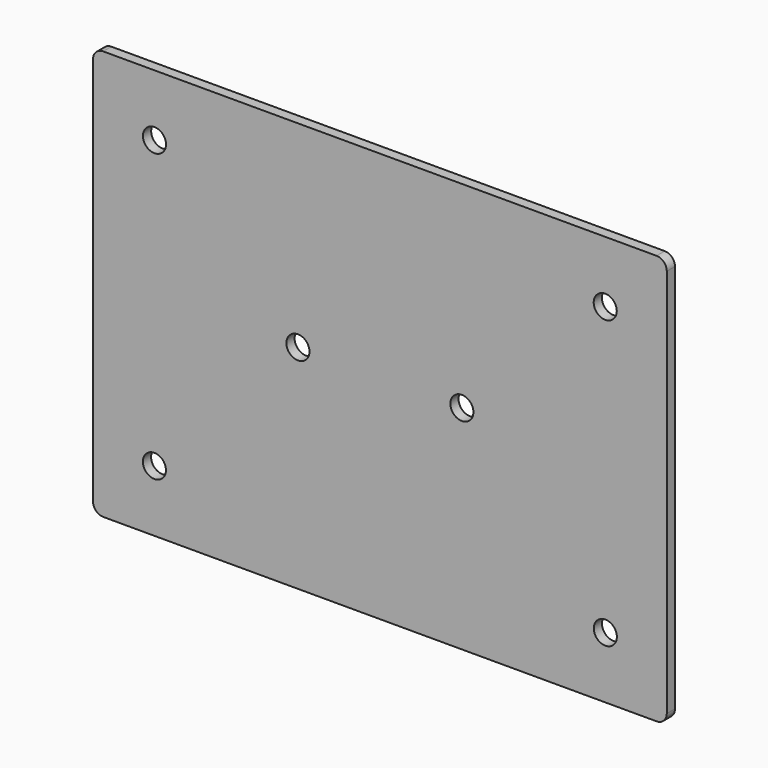
from build123d import *

# Parameters (mm, degrees)
F0_R     = 7.14375
F1_DEPTH = 6.35


with BuildPart() as f1:
    # F0 (on Front) → F1 (new body)
    with BuildSketch(Plane.XZ):
        with BuildLine():
            ThreePointArc((-171.45, 127), (-175.940128, 125.140128), (-177.8, 120.65))
            Line((-177.8, 120.65), (-177.8, -20.6375))
            Line((-177.8, -20.6375), (-177.8, -30.1625))
            Line((-177.8, -30.1625), (-177.8, -120.65))
            ThreePointArc((-177.8, -120.65), (-175.940128, -125.140128), (-171.45, -127))
            Line((-171.45, -127), (171.45, -127))
            ThreePointArc((171.45, -127), (175.940128, -125.140128), (177.8, -120.65))
            Line((177.8, -120.65), (177.8, -30.1625))
            Line((177.8, -30.1625), (177.8, -20.6375))
            Line((177.8, -20.6375), (177.8, 120.65))
            ThreePointArc((177.8, 120.65), (175.940128, 125.140128), (171.45, 127))
            Line((171.45, 127), (-171.45, 127))
        make_face()
        with Locations((-139.746101, -88.850368)):
            Circle(F0_R, mode=Mode.SUBTRACT)
        with Locations((139.713767, -88.917399)):
            Circle(F0_R, mode=Mode.SUBTRACT)
        with Locations((-50.802743, 4.775175)):
            Circle(F0_R, mode=Mode.SUBTRACT)
        with Locations((-139.7, 88.9)):
            Circle(F0_R, mode=Mode.SUBTRACT)
        with Locations((50.814427, 4.760493)):
            Circle(F0_R, mode=Mode.SUBTRACT)
        with Locations((139.654712, 88.858014)):
            Circle(F0_R, mode=Mode.SUBTRACT)
    extrude(amount=F1_DEPTH)


solid = f1.part
